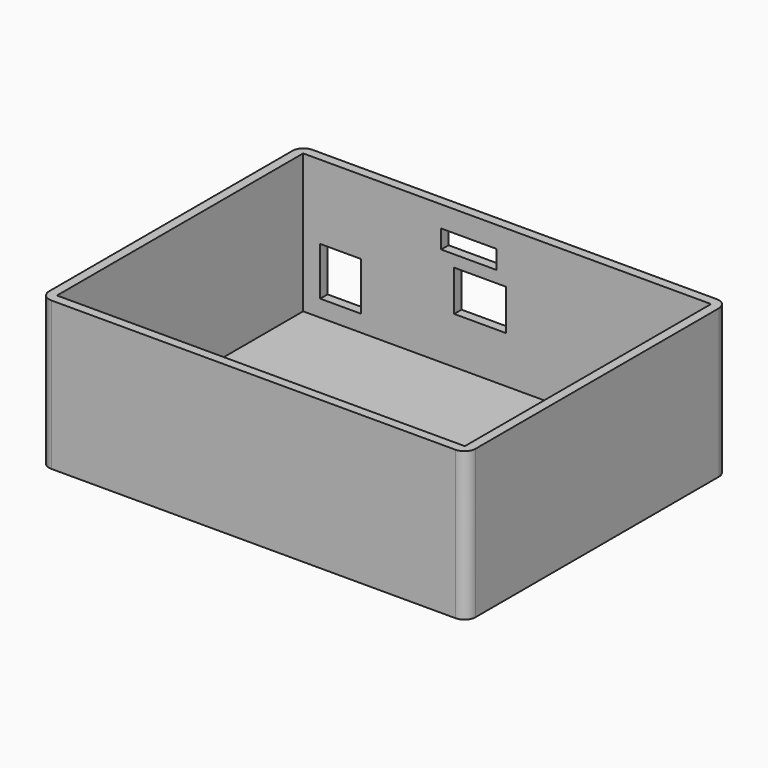
from build123d import *

# Parameters (mm, degrees)
F0_W     = 115
F0_H     = 88
F1_DEPTH = 40
F2_T     = -2.5
F3_W     = 15
F3_H     = 5
F3_W_2   = 14
F3_H_2   = 11
F3_W_3   = 11
F3_H_3   = 13
F4_DEPTH = 2.5
F5_R     = 3


with BuildPart() as f1:
    # F0 (on Top) → F1 (new body)
    with BuildSketch(Plane.XY):
        with Locations((2.412276, -2.127609)):
            Rectangle(F0_W, F0_H)
    extrude(amount=F1_DEPTH)

    # F2
    f2_openings = [f1.faces().sort_by_distance(p)[0] for p in [
        (2.412276, -2.127609, 40),
    ]]
    offset(amount=F2_T, openings=f2_openings)

    # F3 (on face) → F4 (cut)
    with BuildSketch(Plane(origin=(0, 41.872391, 0), x_dir=(-1, 0, 0), z_dir=(0, 1, 0))):
        with Locations((7.879983, 31.778646)):
            Rectangle(F3_W, F3_H)
        with Locations((4.874999, 20.622397)):
            Rectangle(F3_W_2, F3_H_2)
        with Locations((42.508882, 13.5)):
            Rectangle(F3_W_3, F3_H_3)
    extrude(amount=-F4_DEPTH, mode=Mode.SUBTRACT)

    # F5
    f5_edges = [f1.edges().sort_by_distance(p)[0] for p in [
        (59.912276, -46.127609, 20),
        (-55.087724, -46.127609, 20),
        (-55.087724, 41.872391, 20),
        (59.912276, 41.872391, 20),
    ]]
    fillet(f5_edges, radius=F5_R)


solid = f1.part
